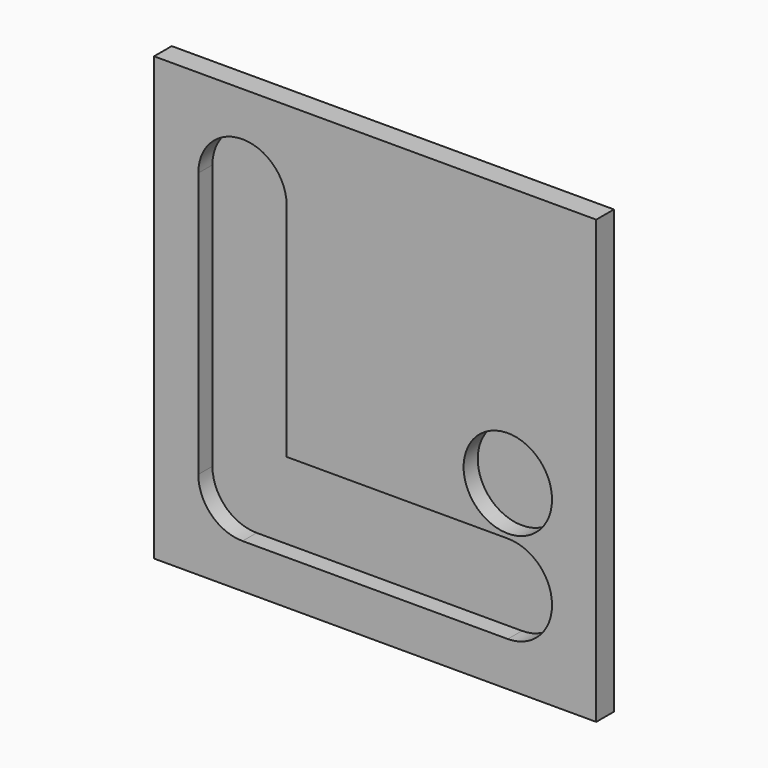
from build123d import *

# Parameters (mm, degrees)
F0_W     = 2540
F0_H     = 2540
F1_DEPTH = 127
F2_R     = 254
F3_DEPTH = 101.6


with BuildPart() as f1:
    # F0 (on Front) → F1 (new body)
    with BuildSketch(Plane.XZ):
        Rectangle(F0_W, F0_H)
    extrude(amount=F1_DEPTH)

    # F2 (on face) → F3 (cut)
    with BuildSketch(Plane.XZ.offset(127)):
        with BuildLine():
            ThreePointArc((-508, 762), (-762, 1016), (-1016, 762))
            Line((-1016, 762), (-1016, -762))
            ThreePointArc((-1016, -762), (-941.605122, -582.394878), (-762, -508))
            Line((-762, -508), (-508, -508))
            Line((-508, -508), (-508, 762))
        make_face()
        with BuildLine():
            ThreePointArc((-762, -508), (-941.605122, -582.394878), (-1016, -762))
            ThreePointArc((-1016, -762), (-941.605122, -941.605122), (-762, -1016))
            ThreePointArc((-762, -1016), (-582.394878, -941.605122), (-508, -762))
            Line((-508, -762), (-508, -508))
            Line((-508, -508), (-762, -508))
        make_face()
        with BuildLine():
            Line((762, -508), (-508, -508))
            Line((-508, -508), (-508, -762))
            ThreePointArc((-508, -762), (-582.394878, -941.605122), (-762, -1016))
            Line((-762, -1016), (762, -1016))
            ThreePointArc((762, -1016), (1016, -762), (762, -508))
        make_face()
        with Locations((762, -228.6)):
            Circle(F2_R)
    extrude(amount=-F3_DEPTH, mode=Mode.SUBTRACT)


solid = f1.part
